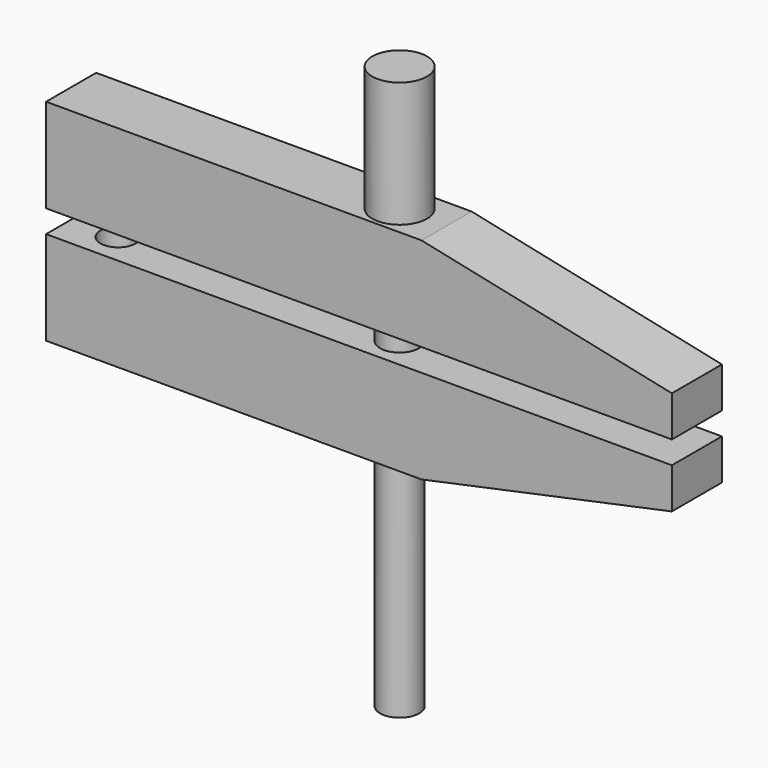
from build123d import *

# Parameters (mm, degrees)
F1_DEPTH = 6.35
F3_D     = 7.9375
F3_DEPTH = 9.525
F3_TIP   = 2.3846655818
F4_D     = 7.9375
F5_D     = 7.14375
F6_R     = 5.55625
F6_R_2   = 3.96875
F7_DEPTH = 25.4
F8_DEPTH = 88.9


with BuildPart() as f1:
    # F0 (on Front) → F1 (new body, symmetric)
    with BuildSketch(Plane.XZ):
        Polygon((-59.4644909084, 19.05), (-59.4644909084, 0), (67.5355090916, 0), (67.5355090916, 8.2521266672), (16.7355090916, 19.05), align=None)
    extrude(amount=F1_DEPTH, both=True)

    # F3
    with Locations(Plane(origin=(0, 0, 0), x_dir=(1, 0, 0), z_dir=(0, 0, -1))):
        with Locations((-49.9394909084, 0)):
            Hole(F3_D / 2, depth=F3_DEPTH)
            with Locations((0, 0, -(F3_DEPTH + F3_TIP / 2))):  # 118° drill point
                Cone(0, F3_D / 2, F3_TIP, mode=Mode.SUBTRACT)

    # F4 (through all)
    with Locations(Plane(origin=(0, 0, 0), x_dir=(1, 0, 0), z_dir=(0, 0, -1))):
        with Locations((7.2105090916, 0)):
            Hole(F4_D / 2)


with BuildPart() as f1b:
    # F0 (on Front) → F1, piece 2 (new body, symmetric)
    with BuildSketch(Plane.XZ):
        Polygon((67.5355090916, -4.6082309008), (-59.4644909084, -4.6082309008), (-59.4644909084, -23.6582309008), (16.7355090916, -23.6582309008), (67.5355090916, -12.8603575679), align=None)
    extrude(amount=F1_DEPTH, both=True)

    # F5 (through all)
    with Locations(Plane.XY):
        with Locations((-49.9394909084, 0), (7.2105090916, 0)):
            Hole(F5_D / 2)


with BuildPart() as f7:
    # F6 (on face) → F7 (new body)
    with BuildSketch(Plane.XY.offset(19.05)):
        with Locations((7.2105090916, 0)):
            Circle(F6_R)
        with Locations((7.2105090916, 0)):
            Circle(F6_R_2, mode=Mode.SUBTRACT)
        with Locations((7.2105090916, 0)):
            Circle(F6_R_2)
    extrude(amount=F7_DEPTH)

    # F6 (on face) → F8 (join)
    with BuildSketch(Plane.XY.offset(19.05)):
        with Locations((7.2105090916, 0)):
            Circle(F6_R_2)
    extrude(amount=-F8_DEPTH)


solid = Compound([f1.part, f1b.part, f7.part])
